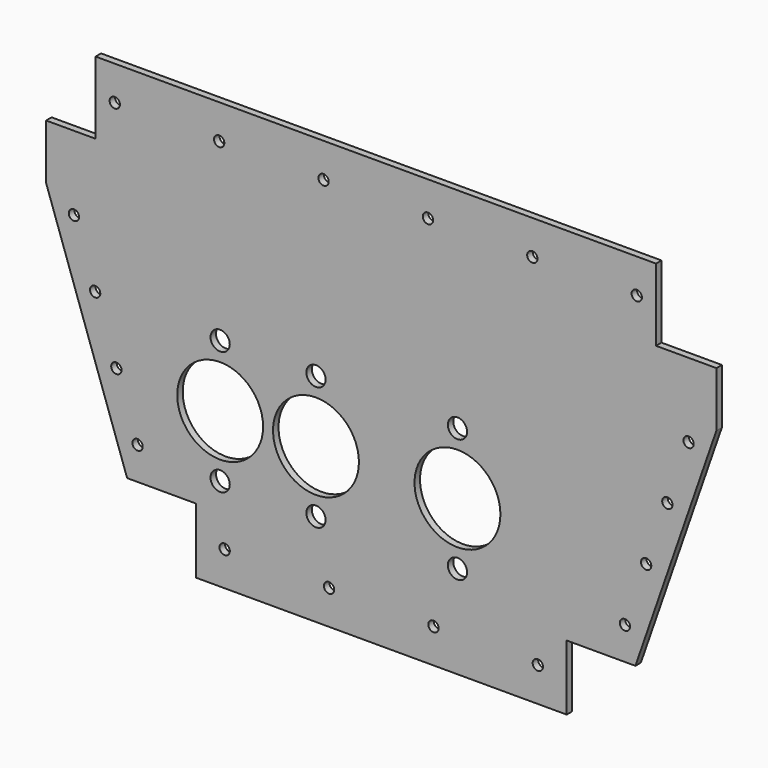
from build123d import *

# Parameters (mm, degrees)
F0_R     = 2.3876
F0_R_2   = 4.445
F0_R_3   = 19.8501
F1_DEPTH = 3.175


with BuildPart() as f1:
    # F0 (on Front) → F1 (new body)
    with BuildSketch(Plane.XZ):
        Polygon((-85.725, -97.6376), (85.725, -97.6376), (85.725, -67.4624), (117.475, -67.4624), (154.94, 40.4876), (154.94, 65.8876), (126.999999, 65.8876), (126.999999, 99.341046), (-132.080001, 99.341046), (-132.080001, 65.8876), (-154.94, 65.8876), (-154.94, 40.4876), (-117.475, -67.4624), (-85.725, -67.4624), align=None)
        with Locations((-112.640408, -52.34178)):
            Circle(F0_R, mode=Mode.SUBTRACT)
        with Locations((-72.39, -81.7626)):
            Circle(F0_R, mode=Mode.SUBTRACT)
        with Locations((-24.13, -81.7626)):
            Circle(F0_R, mode=Mode.SUBTRACT)
        with Locations((-74.4728, -54.6862)):
            Circle(F0_R_2, mode=Mode.SUBTRACT)
        with Locations((-30.1752, -54.6862)):
            Circle(F0_R_2, mode=Mode.SUBTRACT)
        with Locations((-122.451709, -24.370819)):
            Circle(F0_R, mode=Mode.SUBTRACT)
        with Locations((-74.4728, -26.1112)):
            Circle(F0_R_3, mode=Mode.SUBTRACT)
        with Locations((-30.1752, -26.1112)):
            Circle(F0_R_3, mode=Mode.SUBTRACT)
        with Locations((24.13, -81.7626)):
            Circle(F0_R, mode=Mode.SUBTRACT)
        with Locations((72.39, -81.7626)):
            Circle(F0_R, mode=Mode.SUBTRACT)
        with Locations((35.2298, -54.6862)):
            Circle(F0_R_2, mode=Mode.SUBTRACT)
        with Locations((112.640408, -52.34178)):
            Circle(F0_R, mode=Mode.SUBTRACT)
        with Locations((35.2298, -26.1112)):
            Circle(F0_R_3, mode=Mode.SUBTRACT)
        with Locations((122.451709, -24.370819)):
            Circle(F0_R, mode=Mode.SUBTRACT)
        with Locations((-132.263011, 3.600143)):
            Circle(F0_R, mode=Mode.SUBTRACT)
        with Locations((-142.074312, 31.571104)):
            Circle(F0_R, mode=Mode.SUBTRACT)
        with Locations((-74.4728, 2.4638)):
            Circle(F0_R_2, mode=Mode.SUBTRACT)
        with Locations((-30.1752, 2.4638)):
            Circle(F0_R_2, mode=Mode.SUBTRACT)
        with Locations((-123.190001, 83.466046)):
            Circle(F0_R, mode=Mode.SUBTRACT)
        with Locations((-74.930001, 83.466046)):
            Circle(F0_R, mode=Mode.SUBTRACT)
        with Locations((-26.670001, 83.466046)):
            Circle(F0_R, mode=Mode.SUBTRACT)
        with Locations((35.2298, 2.4638)):
            Circle(F0_R_2, mode=Mode.SUBTRACT)
        with Locations((132.263011, 3.600143)):
            Circle(F0_R, mode=Mode.SUBTRACT)
        with Locations((142.074312, 31.571104)):
            Circle(F0_R, mode=Mode.SUBTRACT)
        with Locations((21.589999, 83.466046)):
            Circle(F0_R, mode=Mode.SUBTRACT)
        with Locations((69.849999, 83.466046)):
            Circle(F0_R, mode=Mode.SUBTRACT)
        with Locations((118.109999, 83.466046)):
            Circle(F0_R, mode=Mode.SUBTRACT)
    extrude(amount=F1_DEPTH)


solid = f1.part
